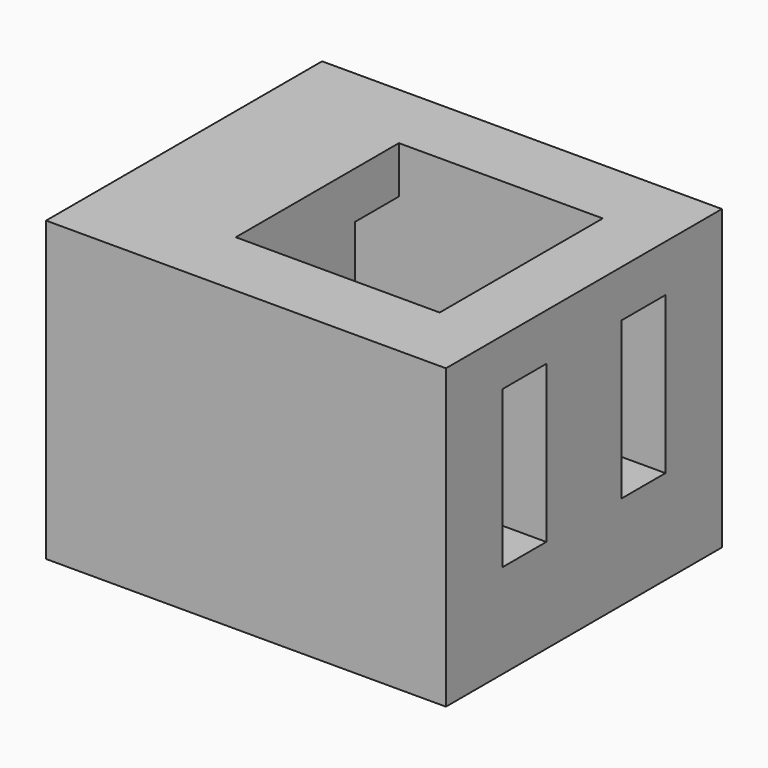
from build123d import *

# Parameters (mm, degrees)
F0_W     = 4.5
F0_H     = 3
F1_DEPTH = 16
F2_DEPTH = 6
F3_DEPTH = 3
F0_W_2   = 4
F4_DEPTH = 16
F5_W     = 4.5
F5_H     = 3.5
F5_W_2   = 4
F5_H_2   = 13
F6_DEPTH = 3


with BuildPart() as f1:
    # F0 (on Top) → F1 (new body)
    with BuildSketch(Plane.XY):
        Polygon((-25.5, 22), (-25.5, 11), (-21.5, 11), (-17, 11), (-17, 14), (-21.5, 14), (-21.5, 14.5), (-21.5, 17.5), (-17, 17.5), (-4, 17.5), (0, 17.5), (0, 22), align=None)
        Polygon((-25.5, 0), (0, 0), (0, 4.5), (-4, 4.5), (-17, 4.5), (-21.5, 4.5), (-21.5, 7.5), (-21.5, 8), (-21.5, 11), (-25.5, 11), align=None)
        with Locations((-19.25, 9.5)):
            Rectangle(F0_W, F0_H)
    extrude(amount=F1_DEPTH)

    # F0 (on Top) → F2 (join)
    with BuildSketch(Plane.XY):
        Polygon((-21.5, 4.5), (-17, 4.5), (-17, 5), (-17, 7.5), (-17, 8), (-21.5, 8), (-21.5, 7.5), align=None)
        Polygon((-21.5, 14), (-17, 14), (-17, 14.5), (-17, 17), (-17, 17.5), (-21.5, 17.5), (-21.5, 14.5), align=None)
        Polygon((0, 17), (0, 17.5), (-4, 17.5), (-4, 17), (-4, 14), (0, 14), (0, 14.5), align=None)
        Polygon((-4, 4.5), (0, 4.5), (0, 5), (0, 7.5), (0, 8), (-4, 8), (-4, 7.5), (-4, 5), align=None)
    extrude(amount=F2_DEPTH)

    # F0 (on Top) → F3 (join)
    with BuildSketch(Plane.XY):
        Polygon((-17, 14), (-17, 11), (-16.5, 11), (-4, 11), (-4, 14), (-4, 17), (-4, 17.5), (-17, 17.5), (-17, 17), (-17, 14.5), align=None)
        Polygon((-17, 4.5), (-4, 4.5), (-4, 5), (-4, 7.5), (-4, 8), (-4, 11), (-16.5, 11), (-17, 11), (-17, 8), (-17, 7.5), (-17, 5), align=None)
    extrude(amount=F3_DEPTH)

    # F0 (on Top) → F4 (join)
    with BuildSketch(Plane.XY):
        with Locations((-2, 9.5)):
            Rectangle(F0_W_2, F0_H)
        with Locations((-2, 12.5)):
            Rectangle(F0_W_2, F0_H)
    extrude(amount=F4_DEPTH)

    # F5 (on face) → F6 (join)
    with BuildSketch(Plane.XY.offset(16)):
        with Locations((-19.25, 6.25)):
            Rectangle(F5_W, F5_H)
        with Locations((-19.25, 15.75)):
            Rectangle(F5_W, F5_H)
        with Locations((-2, 11)):
            Rectangle(F5_W_2, F5_H_2)
        Polygon((0, 4.5), (-4, 4.5), (-17, 4.5), (-21.5, 4.5), (-21.5, 8), (-17, 8), (-17, 14), (-21.5, 14), (-21.5, 17.5), (-17, 17.5), (-4, 17.5), (0, 17.5), (0, 22), (-25.5, 22), (-25.5, 0), (0, 0), align=None)
    extrude(amount=F6_DEPTH)


solid = f1.part
